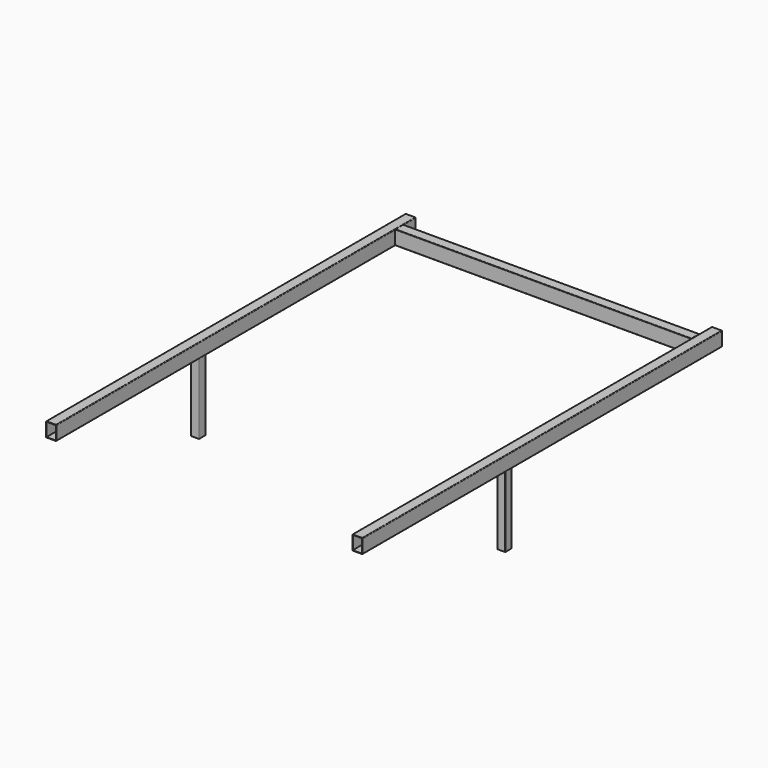
from build123d import *

# Parameters (mm, degrees)
F0_W     = 46
F0_H     = 66
F1_DEPTH = 1100
F2_W     = 46
F2_H     = 66
F3_DEPTH = 725
F5_W     = 36
F5_H     = 36
F6_DEPTH = 350


with BuildPart() as f1:
    # F0 (on Front) → F1 (new body, symmetric)
    with BuildSketch(Plane.XZ):
        with BuildLine():
            ThreePointArc((775, 832.46), (774.256051, 834.256051), (772.46, 835))
            Line((772.46, 835), (727.54, 835))
            ThreePointArc((727.54, 835), (725.743949, 834.256051), (725, 832.46))
            Line((725, 832.46), (725, 767.54))
            ThreePointArc((725, 767.54), (725.743949, 765.743949), (727.54, 765))
            Line((727.54, 765), (772.46, 765))
            ThreePointArc((772.46, 765), (774.256051, 765.743949), (775, 767.54))
            Line((775, 767.54), (775, 832.46))
        make_face()
        with Locations((750, 800)):
            Rectangle(F0_W, F0_H, mode=Mode.SUBTRACT)
        with BuildLine():
            ThreePointArc((-727.54, 765), (-725.743949, 765.743949), (-725, 767.54))
            Line((-725, 767.54), (-725, 832.46))
            ThreePointArc((-725, 832.46), (-725.743949, 834.256051), (-727.54, 835))
            Line((-727.54, 835), (-772.46, 835))
            ThreePointArc((-772.46, 835), (-774.256051, 834.256051), (-775, 832.46))
            Line((-775, 832.46), (-775, 767.54))
            ThreePointArc((-775, 767.54), (-774.256051, 765.743949), (-772.46, 765))
            Line((-772.46, 765), (-727.54, 765))
        make_face()
        with Locations((-750, 800)):
            Rectangle(F0_W, F0_H, mode=Mode.SUBTRACT)
    extrude(amount=F1_DEPTH, both=True)

    # F2 (on Right) → F3 (join, symmetric)
    with BuildSketch(Plane.YZ):
        with BuildLine():
            ThreePointArc((1025, 832.46), (1024.256051, 834.256051), (1022.46, 835))
            Line((1022.46, 835), (977.54, 835))
            ThreePointArc((977.54, 835), (975.743949, 834.256051), (975, 832.46))
            Line((975, 832.46), (975, 767.54))
            ThreePointArc((975, 767.54), (975.743949, 765.743949), (977.54, 765))
            Line((977.54, 765), (1022.46, 765))
            ThreePointArc((1022.46, 765), (1024.256051, 765.743949), (1025, 767.54))
            Line((1025, 767.54), (1025, 832.46))
        make_face()
        with Locations((1000, 800)):
            Rectangle(F2_W, F2_H, mode=Mode.SUBTRACT)
    extrude(amount=F3_DEPTH, both=True)

    # F5 (on offset) → F6 (join)
    with BuildSketch(Plane.XY.offset(765)):
        with BuildLine():
            Line((767.46, -180), (732.54, -180))
            ThreePointArc((732.54, -180), (730.743949, -180.743949), (730, -182.54))
            Line((730, -182.54), (730, -217.46))
            ThreePointArc((730, -217.46), (730.743949, -219.256051), (732.54, -220))
            Line((732.54, -220), (767.46, -220))
            ThreePointArc((767.46, -220), (769.256051, -219.256051), (770, -217.46))
            Line((770, -217.46), (770, -182.54))
            ThreePointArc((770, -182.54), (769.256051, -180.743949), (767.46, -180))
        make_face()
        with Locations((750, -200)):
            Rectangle(F5_W, F5_H, mode=Mode.SUBTRACT)
        with BuildLine():
            ThreePointArc((-730, -182.54), (-730.743949, -180.743949), (-732.54, -180))
            Line((-732.54, -180), (-767.46, -180))
            ThreePointArc((-767.46, -180), (-769.256051, -180.743949), (-770, -182.54))
            Line((-770, -182.54), (-770, -217.46))
            ThreePointArc((-770, -217.46), (-769.256051, -219.256051), (-767.46, -220))
            Line((-767.46, -220), (-732.54, -220))
            ThreePointArc((-732.54, -220), (-730.743949, -219.256051), (-730, -217.46))
            Line((-730, -217.46), (-730, -182.54))
        make_face()
        with Locations((-750, -200)):
            Rectangle(F5_W, F5_H, mode=Mode.SUBTRACT)
    extrude(amount=-F6_DEPTH)


solid = f1.part
